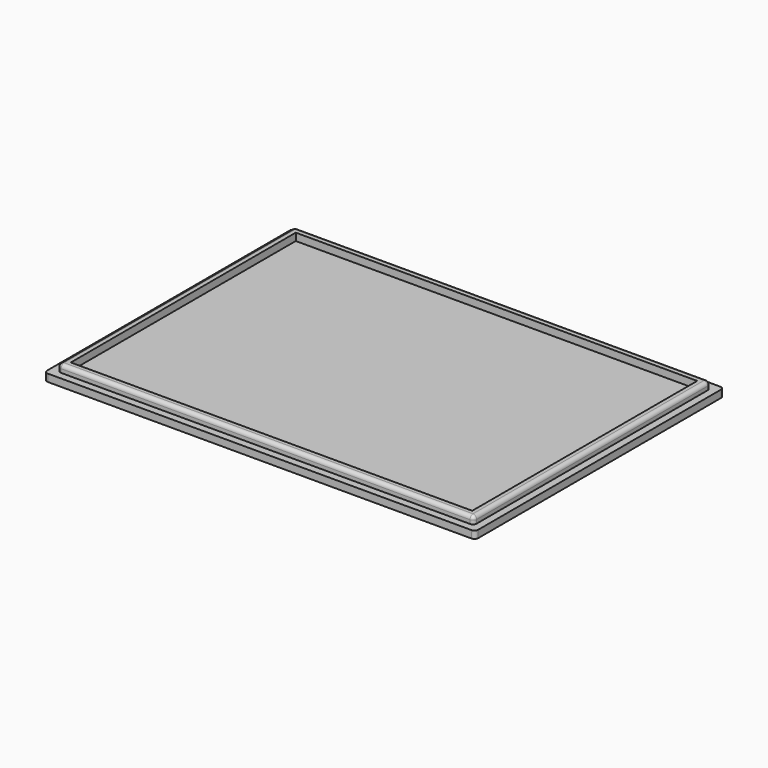
from build123d import *

# Parameters (mm, degrees)
SKETCH007_W     = 116.5
SKETCH007_H     = 84
PAD002_DEPTH    = 2
SKETCH008_W     = 112.5
SKETCH008_H     = 80
PAD003_DEPTH    = 2
SKETCH009_W     = 108.5
SKETCH009_H     = 76
POCKET004_DEPTH = 2
FILLET008_R     = 1
FILLET009_R     = 1


with BuildPart() as part:
    # Sketch007 → Pad002 (new body)
    with BuildSketch(Plane(origin=(0, 0, 0), x_dir=(1, 0, 0), z_dir=(0, 0, -1))):
        with Locations((58.25, 42)):
            Rectangle(SKETCH007_W, SKETCH007_H)
    extrude(amount=PAD002_DEPTH)

    # Sketch008 (on Face5 of Pad002) → Pad003 (new body)
    with BuildSketch(Plane.XY):
        with Locations((58.25, -42)):
            Rectangle(SKETCH008_W, SKETCH008_H)
    extrude(amount=PAD003_DEPTH)

    # Sketch009 (on Face11 of Pad003) → Pocket004 (cut)
    with BuildSketch(Plane.XY.offset(2)):
        with Locations((58.25, -42)):
            Rectangle(SKETCH009_W, SKETCH009_H)
    extrude(amount=-POCKET004_DEPTH, mode=Mode.SUBTRACT)

    # Fillet008
    fillet008_edges = [part.edges().sort_by_distance(p)[0] for p in [
        (0, 0, -1),
        (116.5, 0, -1),
        (0, -84, -1),
        (116.5, -84, -1),
        (114.5, -82, 1),
        (2, -82, 1),
        (114.5, -2, 1),
        (2, -2, 1),
    ]]
    fillet(fillet008_edges, radius=FILLET008_R)

    # Fillet009
    fillet009_edges = [part.edges().sort_by_distance(p)[0] for p in [
        (58.25, -2, 2),
    ]]
    fillet(fillet009_edges, radius=FILLET009_R)


solid = part.part
